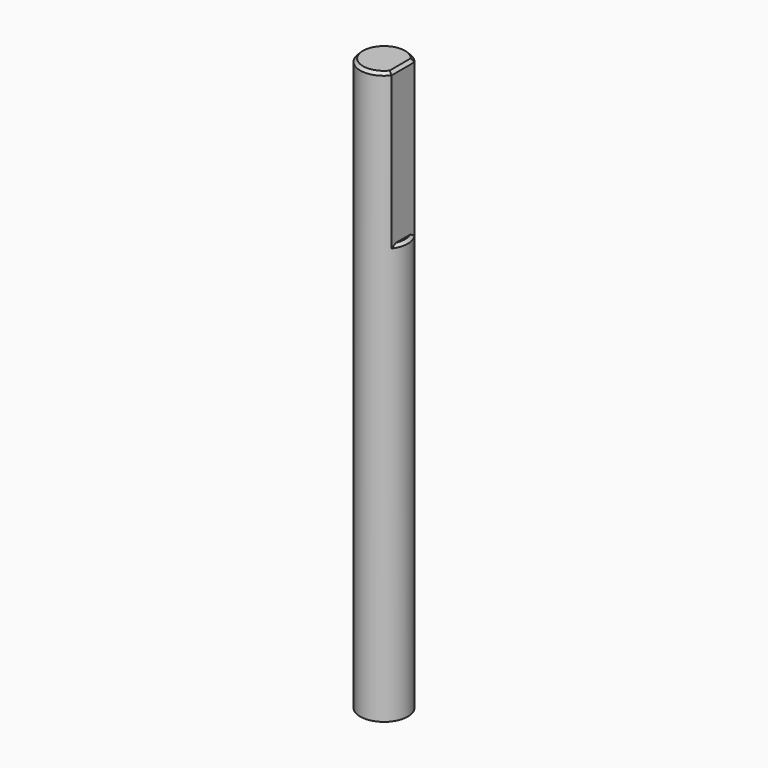
from build123d import *

# Parameters (mm, degrees)
SKETCH070_R     = 2.5
PAD030_DEPTH    = 60
SKETCH066_W     = 4
SKETCH066_H     = 4
POCKET022_DEPTH = 16
CHAMFER016_SIZE = 0.3


with BuildPart() as part:
    # Sketch070 → Pad030 (new body)
    with BuildSketch(Plane.XY):
        Circle(SKETCH070_R)
    extrude(amount=PAD030_DEPTH)

    # Sketch066 (on Face3 of Pad030) → Pocket022 (cut)
    with BuildSketch(Plane.XY.offset(60)):
        with Locations((4, 0)):
            Rectangle(SKETCH066_W, SKETCH066_H)
    extrude(amount=-POCKET022_DEPTH, mode=Mode.SUBTRACT)

    # Chamfer016
    chamfer016_edges = [part.edges().sort_by_distance(p)[0] for p in [
        (2.371708, -0.790569, 44),
        (-2.5, 0, 60),
        (2, 0, 60),
    ]]
    chamfer(chamfer016_edges, length=CHAMFER016_SIZE)


with BuildPart() as part_1:
    # Body019 placement: moved
    add(part.part.moved(Location((0, 0, 2))))


solid = part_1.part
